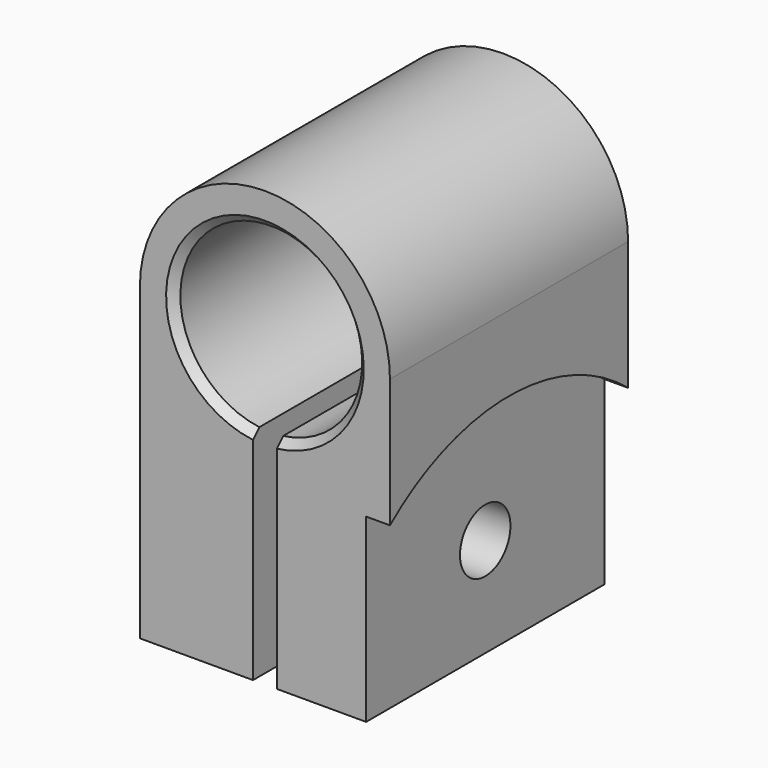
from build123d import *

# Parameters (mm, degrees)
F0_R     = 5.8166
F1_DEPTH = 19.05
F2_SIZE2 = 0.508
F2_SIZE  = 0.508
F4_DEPTH = 25.4
F6_DEPTH = 1.524
F8_D     = 4.0386
F8_DEPTH = 5.715
F8_TIP   = 1.213317848


with BuildPart() as f1:
    # F0 (on Front) → F1 (new body)
    with BuildSketch(Plane.XZ):
        with BuildLine():
            Line((8.001, -19.812), (8.001, 0))
            ThreePointArc((8.001, 0), (0, 8.001), (-8.001, 0))
            Line((-8.001, 0), (-8.001, -19.812))
            Line((-8.001, -19.812), (8.001, -19.812))
        make_face()
        Circle(F0_R, mode=Mode.SUBTRACT)
    extrude(amount=-F1_DEPTH)

    # F2
    f2_edges = [f1.edges().sort_by_distance(p)[0] for p in [
        (-5.8166, 0, 0),
    ]]
    chamfer(f2_edges, length=F2_SIZE, length2=F2_SIZE2)

    # F3 (on face) → F4 (cut)
    with BuildSketch(Plane.XZ):
        with BuildLine():
            Line((-0.762, -6.2785285824), (-0.762, -19.812))
            Line((-0.762, -19.812), (0.762, -19.812))
            Line((0.762, -19.812), (0.762, -6.2785285824))
            ThreePointArc((0.762, -6.2785285824), (0, -6.3246), (-0.762, -6.2785285824))
        make_face()
        with BuildLine():
            Line((-0.762, 0), (-0.762, -6.2785285824))
            ThreePointArc((-0.762, -6.2785285824), (0, -6.3246), (0.762, -6.2785285824))
            Line((0.762, -6.2785285824), (0.762, 0))
            Line((0.762, 0), (-0.762, 0))
        make_face()
    extrude(amount=-F4_DEPTH, mode=Mode.SUBTRACT)

    # F5 (on face) → F6 (cut)
    with BuildSketch(Plane.YZ.offset(8.001)):
        with BuildLine():
            Line((19.05, -19.812), (19.05, -8.2424463785))
            ThreePointArc((19.05, -8.2424463785), (9.525, -4.826), (0, -8.2424463785))
            Line((0, -8.2424463785), (0, -19.812))
            Line((0, -19.812), (19.05, -19.812))
        make_face()
        with BuildLine():
            ThreePointArc((0, -8.2424463785), (3.1281825882, -33.3641556588), (24.511, -19.812))
            ThreePointArc((24.511, -19.812), (23.0771556588, -13.4151825882), (19.05, -8.2424463785))
            Line((19.05, -8.2424463785), (19.05, -19.812))
            Line((19.05, -19.812), (0, -19.812))
            Line((0, -19.812), (0, -8.2424463785))
        make_face()
    extrude(amount=-F6_DEPTH, mode=Mode.SUBTRACT)

    # F8
    with Locations(Plane.YZ.offset(6.477)):
        with Locations((9.525, -13.462)):
            Hole(F8_D / 2, depth=F8_DEPTH)
            with Locations((0, 0, -(F8_DEPTH + F8_TIP / 2))):  # 118° drill point
                Cone(0, F8_D / 2, F8_TIP, mode=Mode.SUBTRACT)


solid = f1.part
